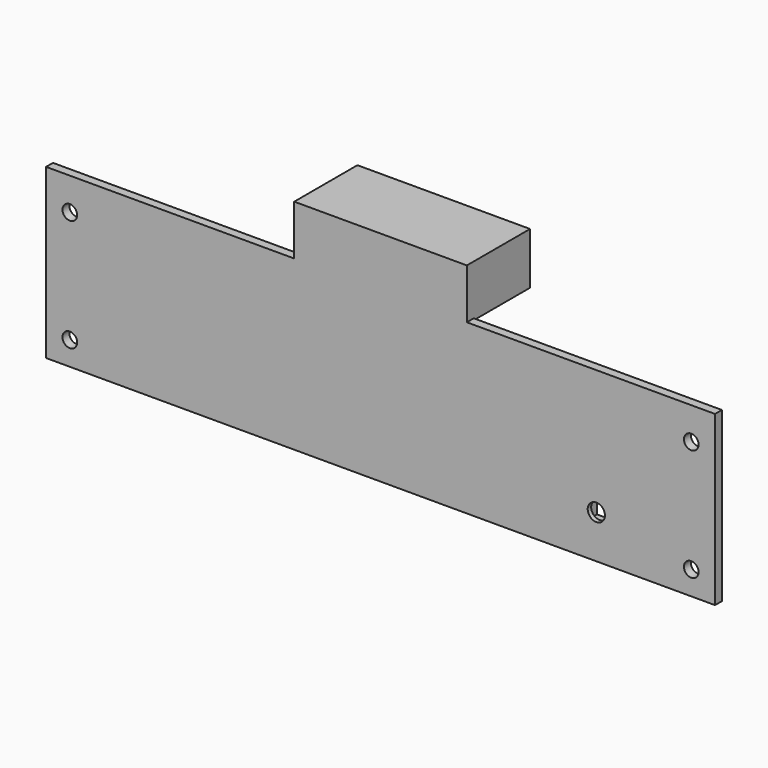
from build123d import *

# Parameters (mm, degrees)
SKETCH043_W     = 155
SKETCH043_H     = 39
PAD008_DEPTH    = 2
SKETCH044_W     = 22.8
SKETCH044_H     = 9.5
PAD009_DEPTH    = 12.3
PAD011_DEPTH    = 51.35
SKETCH052_W     = 6.1
SKETCH052_H     = 6.1
POCKET011_DEPTH = 1
SKETCH053_R     = 2
POCKET012_DEPTH = 2.001
SKETCH065_W     = 40
SKETCH065_H     = 12
PAD020_DEPTH    = 2
PAD021_DEPTH    = 16.3
SKETCH069_R     = 1.7
POCKET016_DEPTH = 2
SKETCH079_W     = 8.1
SKETCH079_H     = 8.1
SKETCH079_W_2   = 6.1
SKETCH079_H_2   = 6.1
PAD025_DEPTH    = 2


with BuildPart() as part:
    # Sketch043 → Pad008 (new body)
    with BuildSketch(Plane.XZ):
        with Locations((0, -15.5)):
            Rectangle(SKETCH043_W, SKETCH043_H)
    extrude(amount=PAD008_DEPTH)

    # Sketch044 → Pad009 (join)
    with BuildSketch(Plane.XZ):
        with Locations((0, -28.25)):
            Rectangle(SKETCH044_W, SKETCH044_H)
    extrude(amount=-PAD009_DEPTH)

    # Sketch046 (on DatumPlane) → Pad011 (join)
    with BuildSketch(Plane.YZ.offset(-16.15)):
        Polygon((0, 0), (2, 0), (0, -5.494955), align=None)
    pad011 = extrude(amount=-PAD011_DEPTH)

    # Mirrored005: Pad011 across YZ
    add(pad011.mirror(Plane.YZ))

    # Sketch052 → Pocket011 (cut)
    with BuildSketch(Plane.XZ):
        with Locations((50, -25)):
            Rectangle(SKETCH052_W, SKETCH052_H)
    extrude(amount=POCKET011_DEPTH, mode=Mode.SUBTRACT)

    # Sketch053 → Pocket012 (cut, through all)
    with BuildSketch(Plane.XZ):
        with Locations((50, -25)):
            Circle(SKETCH053_R)
    extrude(amount=POCKET012_DEPTH, mode=Mode.SUBTRACT)

    # Sketch065 → Pad020 (join)
    with BuildSketch(Plane.XZ):
        with Locations((0, 9.6)):
            Rectangle(SKETCH065_W, SKETCH065_H)
    extrude(amount=PAD020_DEPTH)

    # Sketch066 → Pad021 (join)
    with BuildSketch(Plane.XZ):
        Polygon((-20, 3.6), (-20, 15.6), (20, 15.6), (20, 3.6), (18, 3.6), (18, 11.6), (-18, 11.6), (-18, 3.6), align=None)
    extrude(amount=-PAD021_DEPTH)

    # Sketch069 → Pocket016 (cut)
    with BuildSketch(Plane.XZ):
        with Locations((-72, -3.5)):
            Circle(SKETCH069_R)
        with Locations((-72, -29.5)):
            Circle(SKETCH069_R)
    pocket016 = extrude(amount=POCKET016_DEPTH, mode=Mode.SUBTRACT)

    # Mirrored010: Pocket016 across Sketch069 V_Axis
    add(pocket016.mirror(Plane(origin=(0, 0, 0), x_dir=(0, -1, 0), z_dir=(1, 0, 0))), mode=Mode.SUBTRACT)

    # Sketch079 → Pad025 (join)
    with BuildSketch(Plane.XZ):
        with Locations((50, -25)):
            Rectangle(SKETCH079_W, SKETCH079_H)
        with Locations((50, -25)):
            Rectangle(SKETCH079_W_2, SKETCH079_H_2, mode=Mode.SUBTRACT)
    extrude(amount=-PAD025_DEPTH)


with BuildPart() as part_1:
    # Body005 placement: moved
    add(part.part.moved(Location((0, -140, 0))))


solid = part_1.part
